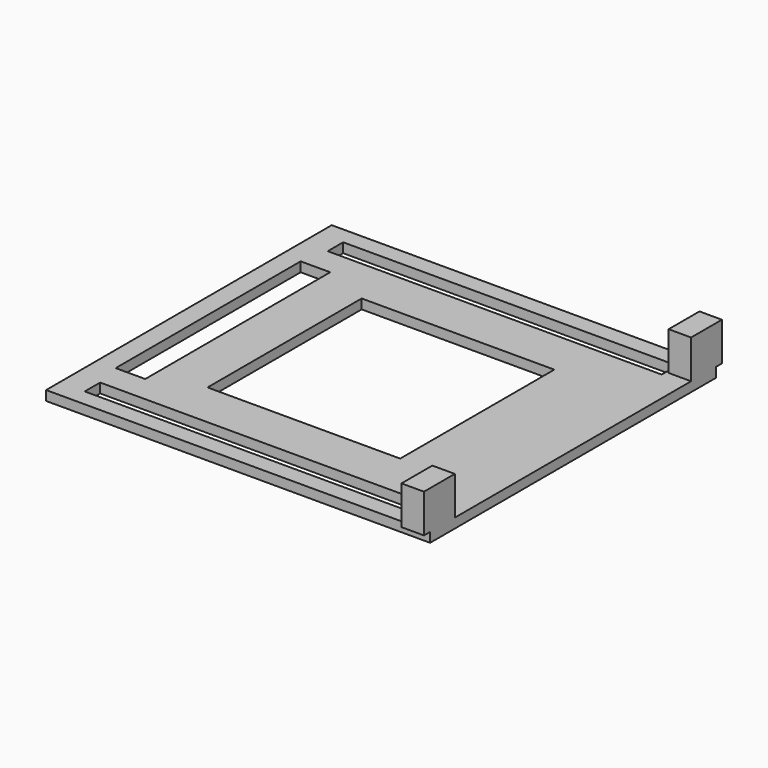
from build123d import *

# Parameters (mm, degrees)
SKETCH_W        = 59.8
SKETCH_H        = 1.5
PAD_DEPTH       = 27.8
SKETCH002_W     = 52
SKETCH002_H     = 3
SKETCH002_W_2   = 30
SKETCH002_H_2   = 30
SKETCH002_W_3   = 4.6
SKETCH002_H_3   = 36
POCKET_DEPTH    = 5
SKETCH003_W     = 3.5
SKETCH003_H     = 6
PAD001_DEPTH    = 6
SKETCH004_R     = 1.75
POCKET001_DEPTH = 5


with BuildPart() as part:
    # Sketch → Pad (new body, symmetric)
    with BuildSketch(Plane.XZ):
        with Locations((0, 0.75)):
            Rectangle(SKETCH_W, SKETCH_H)
    extrude(amount=PAD_DEPTH, both=True)

    # Sketch002 → Pocket (cut)
    with BuildSketch(Plane(origin=(0, 0, 1.5), x_dir=(-1, 0, 0), z_dir=(0, 0, 1))):
        with Locations((0, 23.65)):
            Rectangle(SKETCH002_W, SKETCH002_H)
        with Locations((0, -23.65)):
            Rectangle(SKETCH002_W, SKETCH002_H)
        Rectangle(SKETCH002_W_2, SKETCH002_H_2)
        with Locations((24.6, 0)):
            Rectangle(SKETCH002_W_3, SKETCH002_H_3)
    extrude(amount=-POCKET_DEPTH, mode=Mode.SUBTRACT)

    # Sketch003 → Pad001 (new body)
    with BuildSketch(Plane(origin=(0, 0, 1.5), x_dir=(-1, 0, 0), z_dir=(0, 0, 1))):
        with Locations((-28.15, 26)):
            Rectangle(SKETCH003_W, SKETCH003_H)
        with Locations((-28.15, -26)):
            Rectangle(SKETCH003_W, SKETCH003_H)
    extrude(amount=PAD001_DEPTH)

    # Sketch004 → Pocket001 (cut)
    with BuildSketch(Plane(origin=(-26, 0, 0), x_dir=(0, 0, 1), z_dir=(1, 0, 0))):
        with Locations((-4.5, -25.5)):
            Circle(SKETCH004_R)
        with Locations((-4.5, 25.5)):
            Circle(SKETCH004_R)
    extrude(amount=-POCKET001_DEPTH, mode=Mode.SUBTRACT)


solid = part.part
